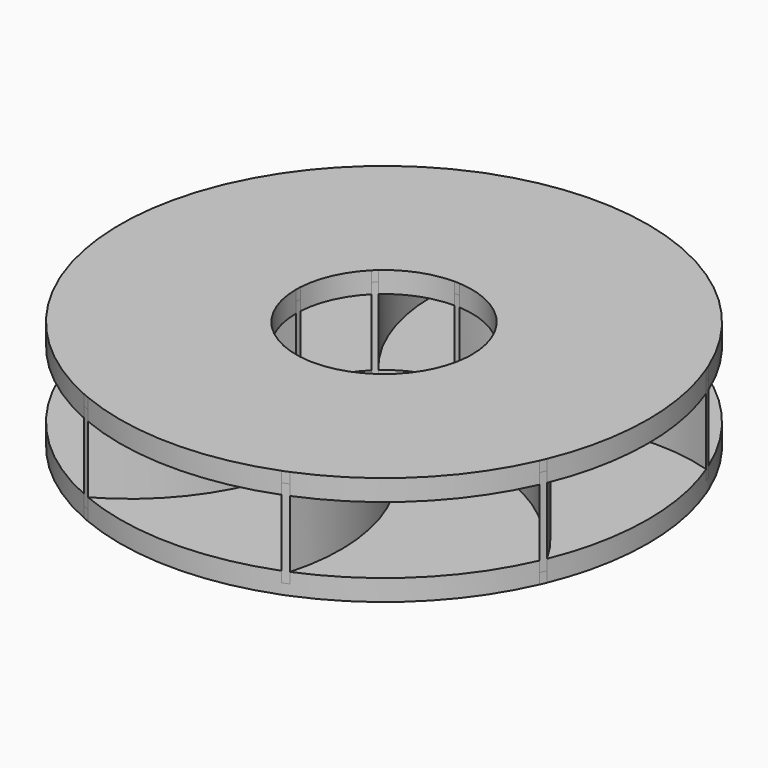
from build123d import *

# Parameters (mm, degrees)
F2_R     = 5
F3_DEPTH = 6
F4_START = 6
F4_DEPTH = 6
F5_START = 56
F5_DEPTH = 6
F6_START = 50
F6_DEPTH = 12
F7_START = 6
F7_DEPTH = 50


with BuildPart() as f3:
    # F2 (on Top) → F3 (new body)
    with BuildSketch(Plane.XY):
        with BuildLine():
            ThreePointArc((138.5819298767, -57.4025148548), (147.1177920605, -29.2635483024), (150, 0))
            ThreePointArc((150, 0), (147.4782772763, 27.3890074961), (139.9978969117, 53.8571152244))
            ThreePointArc((139.9978969117, 53.8571152244), (86.0844818348, 56.5136681627), (37.415537165, 33.1674174252))
            ThreePointArc((37.415537165, 33.1674174252), (46.7481382423, 17.7372932229), (50, 0))
            ThreePointArc((50, 0), (101.4166123393, -17.7051608279), (138.5819298767, -57.4025148548))
        make_face()
        with BuildLine():
            ThreePointArc((37.415537165, 33.1674174252), (86.0844818348, 56.5136681627), (139.9978969117, 53.8571152244))
            ThreePointArc((139.9978969117, 53.8571152244), (139.3011932397, 55.6343200012), (138.5819298767, 57.4025148548))
            ThreePointArc((138.5819298767, 57.4025148548), (84.2318135935, 59.1929350266), (35.3553390593, 35.3553390593))
            ThreePointArc((35.3553390593, 35.3553390593), (36.4018798537, 34.2768601701), (37.415537165, 33.1674174252))
        make_face()
        with BuildLine():
            ThreePointArc((137.0761936485, -60.9107308678), (137.8402233067, -59.1614134276), (138.5819298767, -57.4025148548))
            ThreePointArc((138.5819298767, -57.4025148548), (101.4166123393, -17.7051608279), (50, 0))
            ThreePointArc((50, 0), (49.9774163565, -1.5026158284), (49.9096858269, -3.0038742753))
            ThreePointArc((49.9096858269, -3.0038742753), (100.8321188479, -20.9097228728), (137.0761936485, -60.9107308678))
        make_face()
        with BuildLine():
            ThreePointArc((35.3553390593, 35.3553390593), (84.2318135935, 59.1929350266), (138.5819298767, 57.4025148548))
            ThreePointArc((138.5819298767, 57.4025148548), (107.4071887532, 104.7076683158), (60.9107308678, 137.0761936485))
            ThreePointArc((60.9107308678, 137.0761936485), (20.9097228728, 100.8321188479), (3.0038742753, 49.9096858269))
            ThreePointArc((3.0038742753, 49.9096858269), (20.5137652412, 45.5980858768), (35.3553390593, 35.3553390593))
        make_face()
        with BuildLine():
            ThreePointArc((57.4025148548, -138.5819298767), (104.7076683158, -107.4071887532), (137.0761936485, -60.9107308678))
            ThreePointArc((137.0761936485, -60.9107308678), (100.8321188479, -20.9097228728), (49.9096858269, -3.0038742753))
            ThreePointArc((49.9096858269, -3.0038742753), (45.5980858768, -20.5137652412), (35.3553390593, -35.3553390593))
            ThreePointArc((35.3553390593, -35.3553390593), (59.1929350266, -84.2318135935), (57.4025148548, -138.5819298767))
        make_face()
        with BuildLine():
            ThreePointArc((3.0038742753, 49.9096858269), (20.9097228728, 100.8321188479), (60.9107308678, 137.0761936485))
            ThreePointArc((60.9107308678, 137.0761936485), (59.1614134276, 137.8402233067), (57.4025148548, 138.5819298767))
            ThreePointArc((57.4025148548, 138.5819298767), (17.7051608279, 101.4166123393), (0, 50))
            ThreePointArc((0, 50), (1.5026158284, 49.9774163565), (3.0038742753, 49.9096858269))
        make_face()
        with BuildLine():
            ThreePointArc((53.8571152244, -139.9978969117), (55.6343200012, -139.3011932397), (57.4025148548, -138.5819298767))
            ThreePointArc((57.4025148548, -138.5819298767), (59.1929350266, -84.2318135935), (35.3553390593, -35.3553390593))
            ThreePointArc((35.3553390593, -35.3553390593), (34.2768601701, -36.4018798537), (33.1674174252, -37.415537165))
            ThreePointArc((33.1674174252, -37.415537165), (56.5136681627, -86.0844818348), (53.8571152244, -139.9978969117))
        make_face()
        with BuildLine():
            ThreePointArc((0, 50), (17.7051608279, 101.4166123393), (57.4025148548, 138.5819298767))
            ThreePointArc((57.4025148548, 138.5819298767), (1.9088492072, 149.9878538239), (-53.8571152244, 139.9978969117))
            ThreePointArc((-53.8571152244, 139.9978969117), (-56.5136681627, 86.0844818348), (-33.1674174252, 37.415537165))
            ThreePointArc((-33.1674174252, 37.415537165), (-17.7372932229, 46.7481382423), (0, 50))
        make_face()
        with BuildLine():
            ThreePointArc((-57.4025148548, -138.5819298767), (-1.9088492072, -149.9878538239), (53.8571152244, -139.9978969117))
            ThreePointArc((53.8571152244, -139.9978969117), (56.5136681627, -86.0844818348), (33.1674174252, -37.415537165))
            ThreePointArc((33.1674174252, -37.415537165), (17.7372932229, -46.7481382423), (0, -50))
            ThreePointArc((0, -50), (-17.7051608279, -101.4166123393), (-57.4025148548, -138.5819298767))
        make_face()
        with BuildLine():
            ThreePointArc((-33.1674174252, 37.415537165), (-56.5136681627, 86.0844818348), (-53.8571152244, 139.9978969117))
            ThreePointArc((-53.8571152244, 139.9978969117), (-55.6343200012, 139.3011932397), (-57.4025148548, 138.5819298767))
            ThreePointArc((-57.4025148548, 138.5819298767), (-59.1929350266, 84.2318135935), (-35.3553390593, 35.3553390593))
            ThreePointArc((-35.3553390593, 35.3553390593), (-34.2768601701, 36.4018798537), (-33.1674174252, 37.415537165))
        make_face()
        with BuildLine():
            ThreePointArc((-60.9107308678, -137.0761936485), (-59.1614134276, -137.8402233067), (-57.4025148548, -138.5819298767))
            ThreePointArc((-57.4025148548, -138.5819298767), (-17.7051608279, -101.4166123393), (0, -50))
            ThreePointArc((0, -50), (-1.5026158284, -49.9774163565), (-3.0038742753, -49.9096858269))
            ThreePointArc((-3.0038742753, -49.9096858269), (-20.9097228728, -100.8321188479), (-60.9107308678, -137.0761936485))
        make_face()
        with BuildLine():
            ThreePointArc((-35.3553390593, 35.3553390593), (-59.1929350266, 84.2318135935), (-57.4025148548, 138.5819298767))
            ThreePointArc((-57.4025148548, 138.5819298767), (-104.7076683158, 107.4071887532), (-137.0761936485, 60.9107308678))
            ThreePointArc((-137.0761936485, 60.9107308678), (-100.8321188479, 20.9097228728), (-49.9096858269, 3.0038742753))
            ThreePointArc((-49.9096858269, 3.0038742753), (-45.5980858768, 20.5137652412), (-35.3553390593, 35.3553390593))
        make_face()
        with BuildLine():
            ThreePointArc((-138.5819298767, -57.4025148548), (-107.4071887532, -104.7076683158), (-60.9107308678, -137.0761936485))
            ThreePointArc((-60.9107308678, -137.0761936485), (-20.9097228728, -100.8321188479), (-3.0038742753, -49.9096858269))
            ThreePointArc((-3.0038742753, -49.9096858269), (-20.5137652412, -45.5980858768), (-35.3553390593, -35.3553390593))
            ThreePointArc((-35.3553390593, -35.3553390593), (-84.2318135935, -59.1929350266), (-138.5819298767, -57.4025148548))
        make_face()
        with BuildLine():
            ThreePointArc((-49.9096858269, 3.0038742753), (-100.8321188479, 20.9097228728), (-137.0761936485, 60.9107308678))
            ThreePointArc((-137.0761936485, 60.9107308678), (-137.8402233067, 59.1614134276), (-138.5819298767, 57.4025148548))
            ThreePointArc((-138.5819298767, 57.4025148548), (-101.4166123393, 17.7051608279), (-50, 0))
            ThreePointArc((-50, 0), (-49.9774163565, 1.5026158284), (-49.9096858269, 3.0038742753))
        make_face()
        with BuildLine():
            ThreePointArc((-139.9978969117, -53.8571152244), (-139.3011932397, -55.6343200012), (-138.5819298767, -57.4025148548))
            ThreePointArc((-138.5819298767, -57.4025148548), (-84.2318135935, -59.1929350266), (-35.3553390593, -35.3553390593))
            ThreePointArc((-35.3553390593, -35.3553390593), (-36.4018798537, -34.2768601701), (-37.415537165, -33.1674174252))
            ThreePointArc((-37.415537165, -33.1674174252), (-86.0844818348, -56.5136681627), (-139.9978969117, -53.8571152244))
        make_face()
        with BuildLine():
            ThreePointArc((-50, 0), (-101.4166123393, 17.7051608279), (-138.5819298767, 57.4025148548))
            ThreePointArc((-138.5819298767, 57.4025148548), (-149.9878538239, 1.9088492072), (-139.9978969117, -53.8571152244))
            ThreePointArc((-139.9978969117, -53.8571152244), (-86.0844818348, -56.5136681627), (-37.415537165, -33.1674174252))
            ThreePointArc((-37.415537165, -33.1674174252), (-46.7481382423, -17.7372932229), (-50, 0))
        make_face()
        with BuildLine():
            ThreePointArc((50, 0), (46.7481382423, 17.7372932229), (37.415537165, 33.1674174252))
            ThreePointArc((37.415537165, 33.1674174252), (37.348431333, 33.1113610029), (37.2813701455, 33.0552511795))
            Line((37.2813701455, 33.0552511795), (35.3553390593, 35.3553390593))
            ThreePointArc((35.3553390593, 35.3553390593), (20.5137652412, 45.5980858768), (3.0038742753, 49.9096858269))
            ThreePointArc((3.0038742753, 49.9096858269), (2.9960611628, 49.8225969617), (2.988317379, 49.7355019046))
            Line((2.988317379, 49.7355019046), (0, 50))
            ThreePointArc((0, 50), (-17.7372932229, 46.7481382423), (-33.1674174252, 37.415537165))
            ThreePointArc((-33.1674174252, 37.415537165), (-33.1113610029, 37.348431333), (-33.0552511795, 37.2813701455))
            Line((-33.0552511795, 37.2813701455), (-35.3553390593, 35.3553390593))
            ThreePointArc((-35.3553390593, 35.3553390593), (-45.5980858768, 20.5137652412), (-49.9096858269, 3.0038742753))
            ThreePointArc((-49.9096858269, 3.0038742753), (-49.8225969617, 2.9960611628), (-49.7355019046, 2.988317379))
            Line((-49.7355019046, 2.988317379), (-50, 0))
            ThreePointArc((-50, 0), (-46.7481382423, -17.7372932229), (-37.415537165, -33.1674174252))
            ThreePointArc((-37.415537165, -33.1674174252), (-37.348431333, -33.1113610029), (-37.2813701455, -33.0552511795))
            Line((-37.2813701455, -33.0552511795), (-35.3553390593, -35.3553390593))
            ThreePointArc((-35.3553390593, -35.3553390593), (-20.5137652412, -45.5980858768), (-3.0038742753, -49.9096858269))
            ThreePointArc((-3.0038742753, -49.9096858269), (-2.9960611628, -49.8225969617), (-2.988317379, -49.7355019046))
            Line((-2.988317379, -49.7355019046), (0, -50))
            ThreePointArc((0, -50), (17.7372932229, -46.7481382423), (33.1674174252, -37.415537165))
            ThreePointArc((33.1674174252, -37.415537165), (33.1113610029, -37.348431333), (33.0552511795, -37.2813701455))
            Line((33.0552511795, -37.2813701455), (35.3553390593, -35.3553390593))
            ThreePointArc((35.3553390593, -35.3553390593), (45.5980858768, -20.5137652412), (49.9096858269, -3.0038742753))
            ThreePointArc((49.9096858269, -3.0038742753), (49.8225969617, -2.9960611628), (49.7355019046, -2.988317379))
            Line((49.7355019046, -2.988317379), (50, 0))
        make_face()
        Circle(F2_R, mode=Mode.SUBTRACT)
    extrude(amount=F3_DEPTH)

    # F2 (on Top) → F4 (join)
    with BuildSketch(Plane.XY.offset(F4_START)):
        with BuildLine():
            ThreePointArc((57.4025148548, -138.5819298767), (104.7076683158, -107.4071887532), (137.0761936485, -60.9107308678))
            ThreePointArc((137.0761936485, -60.9107308678), (100.8321188479, -20.9097228728), (49.9096858269, -3.0038742753))
            ThreePointArc((49.9096858269, -3.0038742753), (45.5980858768, -20.5137652412), (35.3553390593, -35.3553390593))
            ThreePointArc((35.3553390593, -35.3553390593), (59.1929350266, -84.2318135935), (57.4025148548, -138.5819298767))
        make_face()
        with BuildLine():
            ThreePointArc((-57.4025148548, -138.5819298767), (-1.9088492072, -149.9878538239), (53.8571152244, -139.9978969117))
            ThreePointArc((53.8571152244, -139.9978969117), (56.5136681627, -86.0844818348), (33.1674174252, -37.415537165))
            ThreePointArc((33.1674174252, -37.415537165), (17.7372932229, -46.7481382423), (0, -50))
            ThreePointArc((0, -50), (-17.7051608279, -101.4166123393), (-57.4025148548, -138.5819298767))
        make_face()
        with BuildLine():
            ThreePointArc((-138.5819298767, -57.4025148548), (-107.4071887532, -104.7076683158), (-60.9107308678, -137.0761936485))
            ThreePointArc((-60.9107308678, -137.0761936485), (-20.9097228728, -100.8321188479), (-3.0038742753, -49.9096858269))
            ThreePointArc((-3.0038742753, -49.9096858269), (-20.5137652412, -45.5980858768), (-35.3553390593, -35.3553390593))
            ThreePointArc((-35.3553390593, -35.3553390593), (-84.2318135935, -59.1929350266), (-138.5819298767, -57.4025148548))
        make_face()
        with BuildLine():
            ThreePointArc((-50, 0), (-101.4166123393, 17.7051608279), (-138.5819298767, 57.4025148548))
            ThreePointArc((-138.5819298767, 57.4025148548), (-149.9878538239, 1.9088492072), (-139.9978969117, -53.8571152244))
            ThreePointArc((-139.9978969117, -53.8571152244), (-86.0844818348, -56.5136681627), (-37.415537165, -33.1674174252))
            ThreePointArc((-37.415537165, -33.1674174252), (-46.7481382423, -17.7372932229), (-50, 0))
        make_face()
        with BuildLine():
            ThreePointArc((-35.3553390593, 35.3553390593), (-59.1929350266, 84.2318135935), (-57.4025148548, 138.5819298767))
            ThreePointArc((-57.4025148548, 138.5819298767), (-104.7076683158, 107.4071887532), (-137.0761936485, 60.9107308678))
            ThreePointArc((-137.0761936485, 60.9107308678), (-100.8321188479, 20.9097228728), (-49.9096858269, 3.0038742753))
            ThreePointArc((-49.9096858269, 3.0038742753), (-45.5980858768, 20.5137652412), (-35.3553390593, 35.3553390593))
        make_face()
        with BuildLine():
            ThreePointArc((0, 50), (17.7051608279, 101.4166123393), (57.4025148548, 138.5819298767))
            ThreePointArc((57.4025148548, 138.5819298767), (1.9088492072, 149.9878538239), (-53.8571152244, 139.9978969117))
            ThreePointArc((-53.8571152244, 139.9978969117), (-56.5136681627, 86.0844818348), (-33.1674174252, 37.415537165))
            ThreePointArc((-33.1674174252, 37.415537165), (-17.7372932229, 46.7481382423), (0, 50))
        make_face()
        with BuildLine():
            ThreePointArc((35.3553390593, 35.3553390593), (84.2318135935, 59.1929350266), (138.5819298767, 57.4025148548))
            ThreePointArc((138.5819298767, 57.4025148548), (107.4071887532, 104.7076683158), (60.9107308678, 137.0761936485))
            ThreePointArc((60.9107308678, 137.0761936485), (20.9097228728, 100.8321188479), (3.0038742753, 49.9096858269))
            ThreePointArc((3.0038742753, 49.9096858269), (20.5137652412, 45.5980858768), (35.3553390593, 35.3553390593))
        make_face()
        with BuildLine():
            ThreePointArc((138.5819298767, -57.4025148548), (147.1177920605, -29.2635483024), (150, 0))
            ThreePointArc((150, 0), (147.4782772763, 27.3890074961), (139.9978969117, 53.8571152244))
            ThreePointArc((139.9978969117, 53.8571152244), (86.0844818348, 56.5136681627), (37.415537165, 33.1674174252))
            ThreePointArc((37.415537165, 33.1674174252), (46.7481382423, 17.7372932229), (50, 0))
            ThreePointArc((50, 0), (101.4166123393, -17.7051608279), (138.5819298767, -57.4025148548))
        make_face()
    extrude(amount=F4_DEPTH)


with BuildPart() as f5:
    # F2 (on Top) → F5 (new body)
    with BuildSketch(Plane.XY.offset(F5_START)):
        with BuildLine():
            ThreePointArc((138.5819298767, -57.4025148548), (147.1177920605, -29.2635483024), (150, 0))
            ThreePointArc((150, 0), (147.4782772763, 27.3890074961), (139.9978969117, 53.8571152244))
            ThreePointArc((139.9978969117, 53.8571152244), (86.0844818348, 56.5136681627), (37.415537165, 33.1674174252))
            ThreePointArc((37.415537165, 33.1674174252), (46.7481382423, 17.7372932229), (50, 0))
            ThreePointArc((50, 0), (101.4166123393, -17.7051608279), (138.5819298767, -57.4025148548))
        make_face()
        with BuildLine():
            ThreePointArc((37.415537165, 33.1674174252), (86.0844818348, 56.5136681627), (139.9978969117, 53.8571152244))
            ThreePointArc((139.9978969117, 53.8571152244), (139.3011932397, 55.6343200012), (138.5819298767, 57.4025148548))
            ThreePointArc((138.5819298767, 57.4025148548), (84.2318135935, 59.1929350266), (35.3553390593, 35.3553390593))
            ThreePointArc((35.3553390593, 35.3553390593), (36.4018798537, 34.2768601701), (37.415537165, 33.1674174252))
        make_face()
        with BuildLine():
            ThreePointArc((137.0761936485, -60.9107308678), (137.8402233067, -59.1614134276), (138.5819298767, -57.4025148548))
            ThreePointArc((138.5819298767, -57.4025148548), (101.4166123393, -17.7051608279), (50, 0))
            ThreePointArc((50, 0), (49.9774163565, -1.5026158284), (49.9096858269, -3.0038742753))
            ThreePointArc((49.9096858269, -3.0038742753), (100.8321188479, -20.9097228728), (137.0761936485, -60.9107308678))
        make_face()
        with BuildLine():
            ThreePointArc((35.3553390593, 35.3553390593), (84.2318135935, 59.1929350266), (138.5819298767, 57.4025148548))
            ThreePointArc((138.5819298767, 57.4025148548), (107.4071887532, 104.7076683158), (60.9107308678, 137.0761936485))
            ThreePointArc((60.9107308678, 137.0761936485), (20.9097228728, 100.8321188479), (3.0038742753, 49.9096858269))
            ThreePointArc((3.0038742753, 49.9096858269), (20.5137652412, 45.5980858768), (35.3553390593, 35.3553390593))
        make_face()
        with BuildLine():
            ThreePointArc((57.4025148548, -138.5819298767), (104.7076683158, -107.4071887532), (137.0761936485, -60.9107308678))
            ThreePointArc((137.0761936485, -60.9107308678), (100.8321188479, -20.9097228728), (49.9096858269, -3.0038742753))
            ThreePointArc((49.9096858269, -3.0038742753), (45.5980858768, -20.5137652412), (35.3553390593, -35.3553390593))
            ThreePointArc((35.3553390593, -35.3553390593), (59.1929350266, -84.2318135935), (57.4025148548, -138.5819298767))
        make_face()
        with BuildLine():
            ThreePointArc((3.0038742753, 49.9096858269), (20.9097228728, 100.8321188479), (60.9107308678, 137.0761936485))
            ThreePointArc((60.9107308678, 137.0761936485), (59.1614134276, 137.8402233067), (57.4025148548, 138.5819298767))
            ThreePointArc((57.4025148548, 138.5819298767), (17.7051608279, 101.4166123393), (0, 50))
            ThreePointArc((0, 50), (1.5026158284, 49.9774163565), (3.0038742753, 49.9096858269))
        make_face()
        with BuildLine():
            ThreePointArc((53.8571152244, -139.9978969117), (55.6343200012, -139.3011932397), (57.4025148548, -138.5819298767))
            ThreePointArc((57.4025148548, -138.5819298767), (59.1929350266, -84.2318135935), (35.3553390593, -35.3553390593))
            ThreePointArc((35.3553390593, -35.3553390593), (34.2768601701, -36.4018798537), (33.1674174252, -37.415537165))
            ThreePointArc((33.1674174252, -37.415537165), (56.5136681627, -86.0844818348), (53.8571152244, -139.9978969117))
        make_face()
        with BuildLine():
            ThreePointArc((0, 50), (17.7051608279, 101.4166123393), (57.4025148548, 138.5819298767))
            ThreePointArc((57.4025148548, 138.5819298767), (1.9088492072, 149.9878538239), (-53.8571152244, 139.9978969117))
            ThreePointArc((-53.8571152244, 139.9978969117), (-56.5136681627, 86.0844818348), (-33.1674174252, 37.415537165))
            ThreePointArc((-33.1674174252, 37.415537165), (-17.7372932229, 46.7481382423), (0, 50))
        make_face()
        with BuildLine():
            ThreePointArc((-57.4025148548, -138.5819298767), (-1.9088492072, -149.9878538239), (53.8571152244, -139.9978969117))
            ThreePointArc((53.8571152244, -139.9978969117), (56.5136681627, -86.0844818348), (33.1674174252, -37.415537165))
            ThreePointArc((33.1674174252, -37.415537165), (17.7372932229, -46.7481382423), (0, -50))
            ThreePointArc((0, -50), (-17.7051608279, -101.4166123393), (-57.4025148548, -138.5819298767))
        make_face()
        with BuildLine():
            ThreePointArc((-33.1674174252, 37.415537165), (-56.5136681627, 86.0844818348), (-53.8571152244, 139.9978969117))
            ThreePointArc((-53.8571152244, 139.9978969117), (-55.6343200012, 139.3011932397), (-57.4025148548, 138.5819298767))
            ThreePointArc((-57.4025148548, 138.5819298767), (-59.1929350266, 84.2318135935), (-35.3553390593, 35.3553390593))
            ThreePointArc((-35.3553390593, 35.3553390593), (-34.2768601701, 36.4018798537), (-33.1674174252, 37.415537165))
        make_face()
        with BuildLine():
            ThreePointArc((-60.9107308678, -137.0761936485), (-59.1614134276, -137.8402233067), (-57.4025148548, -138.5819298767))
            ThreePointArc((-57.4025148548, -138.5819298767), (-17.7051608279, -101.4166123393), (0, -50))
            ThreePointArc((0, -50), (-1.5026158284, -49.9774163565), (-3.0038742753, -49.9096858269))
            ThreePointArc((-3.0038742753, -49.9096858269), (-20.9097228728, -100.8321188479), (-60.9107308678, -137.0761936485))
        make_face()
        with BuildLine():
            ThreePointArc((-35.3553390593, 35.3553390593), (-59.1929350266, 84.2318135935), (-57.4025148548, 138.5819298767))
            ThreePointArc((-57.4025148548, 138.5819298767), (-104.7076683158, 107.4071887532), (-137.0761936485, 60.9107308678))
            ThreePointArc((-137.0761936485, 60.9107308678), (-100.8321188479, 20.9097228728), (-49.9096858269, 3.0038742753))
            ThreePointArc((-49.9096858269, 3.0038742753), (-45.5980858768, 20.5137652412), (-35.3553390593, 35.3553390593))
        make_face()
        with BuildLine():
            ThreePointArc((-138.5819298767, -57.4025148548), (-107.4071887532, -104.7076683158), (-60.9107308678, -137.0761936485))
            ThreePointArc((-60.9107308678, -137.0761936485), (-20.9097228728, -100.8321188479), (-3.0038742753, -49.9096858269))
            ThreePointArc((-3.0038742753, -49.9096858269), (-20.5137652412, -45.5980858768), (-35.3553390593, -35.3553390593))
            ThreePointArc((-35.3553390593, -35.3553390593), (-84.2318135935, -59.1929350266), (-138.5819298767, -57.4025148548))
        make_face()
        with BuildLine():
            ThreePointArc((-49.9096858269, 3.0038742753), (-100.8321188479, 20.9097228728), (-137.0761936485, 60.9107308678))
            ThreePointArc((-137.0761936485, 60.9107308678), (-137.8402233067, 59.1614134276), (-138.5819298767, 57.4025148548))
            ThreePointArc((-138.5819298767, 57.4025148548), (-101.4166123393, 17.7051608279), (-50, 0))
            ThreePointArc((-50, 0), (-49.9774163565, 1.5026158284), (-49.9096858269, 3.0038742753))
        make_face()
        with BuildLine():
            ThreePointArc((-139.9978969117, -53.8571152244), (-139.3011932397, -55.6343200012), (-138.5819298767, -57.4025148548))
            ThreePointArc((-138.5819298767, -57.4025148548), (-84.2318135935, -59.1929350266), (-35.3553390593, -35.3553390593))
            ThreePointArc((-35.3553390593, -35.3553390593), (-36.4018798537, -34.2768601701), (-37.415537165, -33.1674174252))
            ThreePointArc((-37.415537165, -33.1674174252), (-86.0844818348, -56.5136681627), (-139.9978969117, -53.8571152244))
        make_face()
        with BuildLine():
            ThreePointArc((-50, 0), (-101.4166123393, 17.7051608279), (-138.5819298767, 57.4025148548))
            ThreePointArc((-138.5819298767, 57.4025148548), (-149.9878538239, 1.9088492072), (-139.9978969117, -53.8571152244))
            ThreePointArc((-139.9978969117, -53.8571152244), (-86.0844818348, -56.5136681627), (-37.415537165, -33.1674174252))
            ThreePointArc((-37.415537165, -33.1674174252), (-46.7481382423, -17.7372932229), (-50, 0))
        make_face()
    extrude(amount=F5_DEPTH)

    # F2 (on Top) → F6 (join)
    with BuildSketch(Plane.XY.offset(F6_START)):
        with BuildLine():
            ThreePointArc((-35.3553390593, 35.3553390593), (-59.1929350266, 84.2318135935), (-57.4025148548, 138.5819298767))
            ThreePointArc((-57.4025148548, 138.5819298767), (-104.7076683158, 107.4071887532), (-137.0761936485, 60.9107308678))
            ThreePointArc((-137.0761936485, 60.9107308678), (-100.8321188479, 20.9097228728), (-49.9096858269, 3.0038742753))
            ThreePointArc((-49.9096858269, 3.0038742753), (-45.5980858768, 20.5137652412), (-35.3553390593, 35.3553390593))
        make_face()
        with BuildLine():
            ThreePointArc((0, 50), (17.7051608279, 101.4166123393), (57.4025148548, 138.5819298767))
            ThreePointArc((57.4025148548, 138.5819298767), (1.9088492072, 149.9878538239), (-53.8571152244, 139.9978969117))
            ThreePointArc((-53.8571152244, 139.9978969117), (-56.5136681627, 86.0844818348), (-33.1674174252, 37.415537165))
            ThreePointArc((-33.1674174252, 37.415537165), (-17.7372932229, 46.7481382423), (0, 50))
        make_face()
        with BuildLine():
            ThreePointArc((35.3553390593, 35.3553390593), (84.2318135935, 59.1929350266), (138.5819298767, 57.4025148548))
            ThreePointArc((138.5819298767, 57.4025148548), (107.4071887532, 104.7076683158), (60.9107308678, 137.0761936485))
            ThreePointArc((60.9107308678, 137.0761936485), (20.9097228728, 100.8321188479), (3.0038742753, 49.9096858269))
            ThreePointArc((3.0038742753, 49.9096858269), (20.5137652412, 45.5980858768), (35.3553390593, 35.3553390593))
        make_face()
        with BuildLine():
            ThreePointArc((138.5819298767, -57.4025148548), (147.1177920605, -29.2635483024), (150, 0))
            ThreePointArc((150, 0), (147.4782772763, 27.3890074961), (139.9978969117, 53.8571152244))
            ThreePointArc((139.9978969117, 53.8571152244), (86.0844818348, 56.5136681627), (37.415537165, 33.1674174252))
            ThreePointArc((37.415537165, 33.1674174252), (46.7481382423, 17.7372932229), (50, 0))
            ThreePointArc((50, 0), (101.4166123393, -17.7051608279), (138.5819298767, -57.4025148548))
        make_face()
        with BuildLine():
            ThreePointArc((57.4025148548, -138.5819298767), (104.7076683158, -107.4071887532), (137.0761936485, -60.9107308678))
            ThreePointArc((137.0761936485, -60.9107308678), (100.8321188479, -20.9097228728), (49.9096858269, -3.0038742753))
            ThreePointArc((49.9096858269, -3.0038742753), (45.5980858768, -20.5137652412), (35.3553390593, -35.3553390593))
            ThreePointArc((35.3553390593, -35.3553390593), (59.1929350266, -84.2318135935), (57.4025148548, -138.5819298767))
        make_face()
        with BuildLine():
            ThreePointArc((-57.4025148548, -138.5819298767), (-1.9088492072, -149.9878538239), (53.8571152244, -139.9978969117))
            ThreePointArc((53.8571152244, -139.9978969117), (56.5136681627, -86.0844818348), (33.1674174252, -37.415537165))
            ThreePointArc((33.1674174252, -37.415537165), (17.7372932229, -46.7481382423), (0, -50))
            ThreePointArc((0, -50), (-17.7051608279, -101.4166123393), (-57.4025148548, -138.5819298767))
        make_face()
        with BuildLine():
            ThreePointArc((-138.5819298767, -57.4025148548), (-107.4071887532, -104.7076683158), (-60.9107308678, -137.0761936485))
            ThreePointArc((-60.9107308678, -137.0761936485), (-20.9097228728, -100.8321188479), (-3.0038742753, -49.9096858269))
            ThreePointArc((-3.0038742753, -49.9096858269), (-20.5137652412, -45.5980858768), (-35.3553390593, -35.3553390593))
            ThreePointArc((-35.3553390593, -35.3553390593), (-84.2318135935, -59.1929350266), (-138.5819298767, -57.4025148548))
        make_face()
        with BuildLine():
            ThreePointArc((-50, 0), (-101.4166123393, 17.7051608279), (-138.5819298767, 57.4025148548))
            ThreePointArc((-138.5819298767, 57.4025148548), (-149.9878538239, 1.9088492072), (-139.9978969117, -53.8571152244))
            ThreePointArc((-139.9978969117, -53.8571152244), (-86.0844818348, -56.5136681627), (-37.415537165, -33.1674174252))
            ThreePointArc((-37.415537165, -33.1674174252), (-46.7481382423, -17.7372932229), (-50, 0))
        make_face()
    extrude(amount=F6_DEPTH)


with BuildPart() as f7:
    # F2 (on Top) → F7 (new body)
    with BuildSketch(Plane.XY.offset(F7_START)):
        with BuildLine():
            ThreePointArc((-33.1674174252, 37.415537165), (-56.5136681627, 86.0844818348), (-53.8571152244, 139.9978969117))
            ThreePointArc((-53.8571152244, 139.9978969117), (-55.6343200012, 139.3011932397), (-57.4025148548, 138.5819298767))
            ThreePointArc((-57.4025148548, 138.5819298767), (-59.1929350266, 84.2318135935), (-35.3553390593, 35.3553390593))
            ThreePointArc((-35.3553390593, 35.3553390593), (-34.2768601701, 36.4018798537), (-33.1674174252, 37.415537165))
        make_face()
    extrude(amount=F7_DEPTH)


with BuildPart() as f7b:
    # F2 (on Top) → F7, piece 2 (new body)
    with BuildSketch(Plane.XY.offset(F7_START)):
        with BuildLine():
            ThreePointArc((3.0038742753, 49.9096858269), (20.9097228728, 100.8321188479), (60.9107308678, 137.0761936485))
            ThreePointArc((60.9107308678, 137.0761936485), (59.1614134276, 137.8402233067), (57.4025148548, 138.5819298767))
            ThreePointArc((57.4025148548, 138.5819298767), (17.7051608279, 101.4166123393), (0, 50))
            ThreePointArc((0, 50), (1.5026158284, 49.9774163565), (3.0038742753, 49.9096858269))
        make_face()
    extrude(amount=F7_DEPTH)


with BuildPart() as f7c:
    # F2 (on Top) → F7, piece 3 (new body)
    with BuildSketch(Plane.XY.offset(F7_START)):
        with BuildLine():
            ThreePointArc((-49.9096858269, 3.0038742753), (-100.8321188479, 20.9097228728), (-137.0761936485, 60.9107308678))
            ThreePointArc((-137.0761936485, 60.9107308678), (-137.8402233067, 59.1614134276), (-138.5819298767, 57.4025148548))
            ThreePointArc((-138.5819298767, 57.4025148548), (-101.4166123393, 17.7051608279), (-50, 0))
            ThreePointArc((-50, 0), (-49.9774163565, 1.5026158284), (-49.9096858269, 3.0038742753))
        make_face()
    extrude(amount=F7_DEPTH)


with BuildPart() as f7d:
    # F2 (on Top) → F7, piece 4 (new body)
    with BuildSketch(Plane.XY.offset(F7_START)):
        with BuildLine():
            ThreePointArc((37.415537165, 33.1674174252), (86.0844818348, 56.5136681627), (139.9978969117, 53.8571152244))
            ThreePointArc((139.9978969117, 53.8571152244), (139.3011932397, 55.6343200012), (138.5819298767, 57.4025148548))
            ThreePointArc((138.5819298767, 57.4025148548), (84.2318135935, 59.1929350266), (35.3553390593, 35.3553390593))
            ThreePointArc((35.3553390593, 35.3553390593), (36.4018798537, 34.2768601701), (37.415537165, 33.1674174252))
        make_face()
    extrude(amount=F7_DEPTH)


with BuildPart() as f7e:
    # F2 (on Top) → F7, piece 5 (new body)
    with BuildSketch(Plane.XY.offset(F7_START)):
        with BuildLine():
            ThreePointArc((137.0761936485, -60.9107308678), (137.8402233067, -59.1614134276), (138.5819298767, -57.4025148548))
            ThreePointArc((138.5819298767, -57.4025148548), (101.4166123393, -17.7051608279), (50, 0))
            ThreePointArc((50, 0), (49.9774163565, -1.5026158284), (49.9096858269, -3.0038742753))
            ThreePointArc((49.9096858269, -3.0038742753), (100.8321188479, -20.9097228728), (137.0761936485, -60.9107308678))
        make_face()
    extrude(amount=F7_DEPTH)


with BuildPart() as f7f:
    # F2 (on Top) → F7, piece 6 (new body)
    with BuildSketch(Plane.XY.offset(F7_START)):
        with BuildLine():
            ThreePointArc((53.8571152244, -139.9978969117), (55.6343200012, -139.3011932397), (57.4025148548, -138.5819298767))
            ThreePointArc((57.4025148548, -138.5819298767), (59.1929350266, -84.2318135935), (35.3553390593, -35.3553390593))
            ThreePointArc((35.3553390593, -35.3553390593), (34.2768601701, -36.4018798537), (33.1674174252, -37.415537165))
            ThreePointArc((33.1674174252, -37.415537165), (56.5136681627, -86.0844818348), (53.8571152244, -139.9978969117))
        make_face()
    extrude(amount=F7_DEPTH)


with BuildPart() as f7g:
    # F2 (on Top) → F7, piece 7 (new body)
    with BuildSketch(Plane.XY.offset(F7_START)):
        with BuildLine():
            ThreePointArc((-60.9107308678, -137.0761936485), (-59.1614134276, -137.8402233067), (-57.4025148548, -138.5819298767))
            ThreePointArc((-57.4025148548, -138.5819298767), (-17.7051608279, -101.4166123393), (0, -50))
            ThreePointArc((0, -50), (-1.5026158284, -49.9774163565), (-3.0038742753, -49.9096858269))
            ThreePointArc((-3.0038742753, -49.9096858269), (-20.9097228728, -100.8321188479), (-60.9107308678, -137.0761936485))
        make_face()
    extrude(amount=F7_DEPTH)


with BuildPart() as f7h:
    # F2 (on Top) → F7, piece 8 (new body)
    with BuildSketch(Plane.XY.offset(F7_START)):
        with BuildLine():
            ThreePointArc((-139.9978969117, -53.8571152244), (-139.3011932397, -55.6343200012), (-138.5819298767, -57.4025148548))
            ThreePointArc((-138.5819298767, -57.4025148548), (-84.2318135935, -59.1929350266), (-35.3553390593, -35.3553390593))
            ThreePointArc((-35.3553390593, -35.3553390593), (-36.4018798537, -34.2768601701), (-37.415537165, -33.1674174252))
            ThreePointArc((-37.415537165, -33.1674174252), (-86.0844818348, -56.5136681627), (-139.9978969117, -53.8571152244))
        make_face()
    extrude(amount=F7_DEPTH)


solid = Compound([f3.part, f5.part, f7.part, f7b.part, f7c.part, f7d.part, f7e.part, f7f.part, f7g.part, f7h.part])
